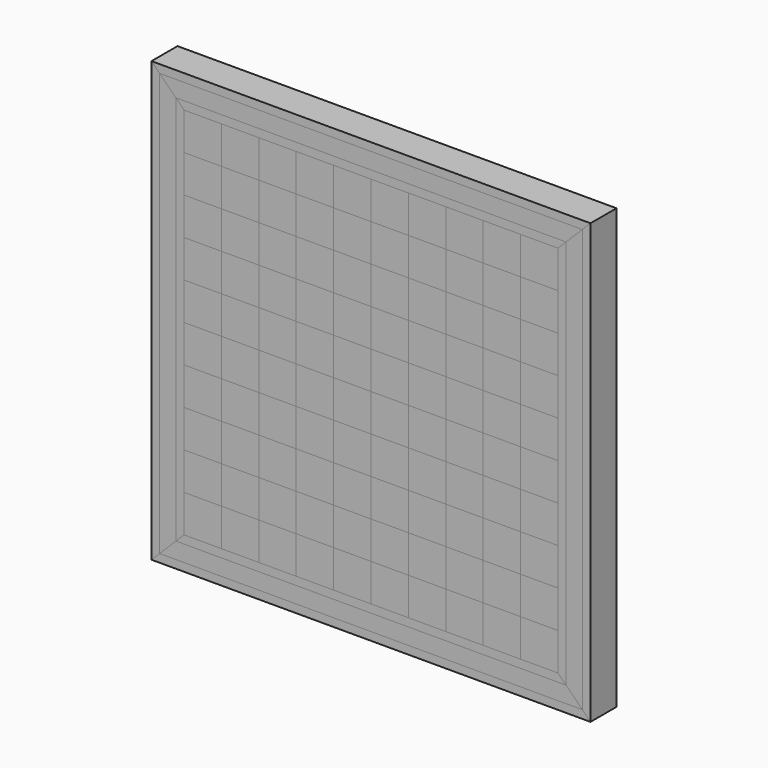
from build123d import *

# Parameters (mm, degrees)
F1_DEPTH = 25.4
F0_W     = 29.21
F0_H     = 29.21
F2_DEPTH = 25.4
F3_DEPTH = 25.4
F4_DEPTH = 25.4


with BuildPart() as f1:
    # F0 (on Front) → F1 (new body)
    with BuildSketch(Plane.XZ):
        Polygon((165.1, 165.1), (171.45, 171.45), (-171.45, 171.45), (-165.1, 165.1), align=None)
    extrude(amount=F1_DEPTH)


with BuildPart() as f1b:
    # F0 (on Front) → F1, piece 2 (new body)
    with BuildSketch(Plane.XZ):
        Polygon((146.05, 146.05), (152.4000018835, 152.4000018835), (116.84, 152.4000018835), (87.63, 152.4000018835), (58.42, 152.4000018835), (29.21, 152.4000018835), (0, 152.4000018835), (-29.21, 152.4000018835), (-58.42, 152.4000018835), (-87.63, 152.4000018835), (-116.84, 152.4000018835), (-152.4000018835, 152.4000018835), (-146.05, 146.05), (-116.84, 146.05), (-87.63, 146.05), (-58.42, 146.05), (-29.21, 146.05), (0, 146.05), (29.21, 146.05), (58.42, 146.05), (87.63, 146.05), (116.84, 146.05), align=None)
    extrude(amount=F1_DEPTH)


with BuildPart() as f1c:
    # F0 (on Front) → F1, piece 3 (new body)
    with BuildSketch(Plane.XZ):
        Polygon((165.1, -165.1), (165.1, 165.1), (152.4000018835, 152.4000018835), (152.4000018835, -152.4000018835), align=None)
    extrude(amount=F1_DEPTH)


with BuildPart() as f1d:
    # F0 (on Front) → F1, piece 4 (new body)
    with BuildSketch(Plane.XZ):
        Polygon((-152.4000018835, 152.4000018835), (-165.1, 165.1), (-165.1, -165.1), (-152.4000018835, -152.4000018835), align=None)
    extrude(amount=F1_DEPTH)


with BuildPart() as f1e:
    # F0 (on Front) → F1, piece 5 (new body)
    with BuildSketch(Plane.XZ):
        Polygon((-152.4000018835, -152.4000018835), (152.4000018835, -152.4000018835), (146.05, -146.05), (116.84, -146.05), (87.63, -146.05), (58.42, -146.05), (29.21, -146.05), (0, -146.05), (-29.21, -146.05), (-58.42, -146.05), (-87.63, -146.05), (-116.84, -146.05), (-146.05, -146.05), align=None)
    extrude(amount=F1_DEPTH)


with BuildPart() as f1f:
    # F0 (on Front) → F1, piece 6 (new body)
    with BuildSketch(Plane.XZ):
        Polygon((-171.45, -171.45), (171.45, -171.45), (165.1, -165.1), (-165.1, -165.1), align=None)
    extrude(amount=F1_DEPTH)


with BuildPart() as f1g:
    # F0 (on Front) → F1, piece 7 (new body)
    with BuildSketch(Plane.XZ):
        with Locations((-131.445, 102.235)):
            Rectangle(F0_W, F0_H)
    extrude(amount=F1_DEPTH)


with BuildPart() as f1h:
    # F0 (on Front) → F1, piece 8 (new body)
    with BuildSketch(Plane.XZ):
        with Locations((-131.445, 43.815)):
            Rectangle(F0_W, F0_H)
    extrude(amount=F1_DEPTH)


with BuildPart() as f1i:
    # F0 (on Front) → F1, piece 9 (new body)
    with BuildSketch(Plane.XZ):
        with Locations((-131.445, -14.605)):
            Rectangle(F0_W, F0_H)
    extrude(amount=F1_DEPTH)


with BuildPart() as f1j:
    # F0 (on Front) → F1, piece 10 (new body)
    with BuildSketch(Plane.XZ):
        with Locations((-131.445, -73.025)):
            Rectangle(F0_W, F0_H)
    extrude(amount=F1_DEPTH)


with BuildPart() as f1k:
    # F0 (on Front) → F1, piece 11 (new body)
    with BuildSketch(Plane.XZ):
        with Locations((-102.235, -102.235)):
            Rectangle(F0_W, F0_H)
    extrude(amount=F1_DEPTH)


with BuildPart() as f1l:
    # F0 (on Front) → F1, piece 12 (new body)
    with BuildSketch(Plane.XZ):
        with Locations((-102.235, -43.815)):
            Rectangle(F0_W, F0_H)
    extrude(amount=F1_DEPTH)


with BuildPart() as f1m:
    # F0 (on Front) → F1, piece 13 (new body)
    with BuildSketch(Plane.XZ):
        with Locations((-102.235, 14.605)):
            Rectangle(F0_W, F0_H)
    extrude(amount=F1_DEPTH)


with BuildPart() as f1n:
    # F0 (on Front) → F1, piece 14 (new body)
    with BuildSketch(Plane.XZ):
        with Locations((-102.235, 73.025)):
            Rectangle(F0_W, F0_H)
    extrude(amount=F1_DEPTH)


with BuildPart() as f1o:
    # F0 (on Front) → F1, piece 15 (new body)
    with BuildSketch(Plane.XZ):
        with Locations((-73.025, 102.235)):
            Rectangle(F0_W, F0_H)
    extrude(amount=F1_DEPTH)


with BuildPart() as f1p:
    # F0 (on Front) → F1, piece 16 (new body)
    with BuildSketch(Plane.XZ):
        with Locations((-73.025, 43.815)):
            Rectangle(F0_W, F0_H)
    extrude(amount=F1_DEPTH)


with BuildPart() as f1q:
    # F0 (on Front) → F1, piece 17 (new body)
    with BuildSketch(Plane.XZ):
        with Locations((-73.025, -14.605)):
            Rectangle(F0_W, F0_H)
    extrude(amount=F1_DEPTH)


with BuildPart() as f1r:
    # F0 (on Front) → F1, piece 18 (new body)
    with BuildSketch(Plane.XZ):
        with Locations((-73.025, -73.025)):
            Rectangle(F0_W, F0_H)
    extrude(amount=F1_DEPTH)


with BuildPart() as f1s:
    # F0 (on Front) → F1, piece 19 (new body)
    with BuildSketch(Plane.XZ):
        with Locations((-43.815, -102.235)):
            Rectangle(F0_W, F0_H)
    extrude(amount=F1_DEPTH)


with BuildPart() as f1t:
    # F0 (on Front) → F1, piece 20 (new body)
    with BuildSketch(Plane.XZ):
        with Locations((-43.815, -43.815)):
            Rectangle(F0_W, F0_H)
    extrude(amount=F1_DEPTH)


with BuildPart() as f1u:
    # F0 (on Front) → F1, piece 21 (new body)
    with BuildSketch(Plane.XZ):
        with Locations((-43.815, 14.605)):
            Rectangle(F0_W, F0_H)
    extrude(amount=F1_DEPTH)


with BuildPart() as f1v:
    # F0 (on Front) → F1, piece 22 (new body)
    with BuildSketch(Plane.XZ):
        with Locations((-43.815, 73.025)):
            Rectangle(F0_W, F0_H)
    extrude(amount=F1_DEPTH)


with BuildPart() as f1w:
    # F0 (on Front) → F1, piece 23 (new body)
    with BuildSketch(Plane.XZ):
        with Locations((-14.605, 102.235)):
            Rectangle(F0_W, F0_H)
    extrude(amount=F1_DEPTH)


with BuildPart() as f1x:
    # F0 (on Front) → F1, piece 24 (new body)
    with BuildSketch(Plane.XZ):
        with Locations((-14.605, 43.815)):
            Rectangle(F0_W, F0_H)
    extrude(amount=F1_DEPTH)


with BuildPart() as f1y:
    # F0 (on Front) → F1, piece 25 (new body)
    with BuildSketch(Plane.XZ):
        with Locations((-14.605, -14.605)):
            Rectangle(F0_W, F0_H)
    extrude(amount=F1_DEPTH)


with BuildPart() as f1z:
    # F0 (on Front) → F1, piece 26 (new body)
    with BuildSketch(Plane.XZ):
        with Locations((-14.605, -73.025)):
            Rectangle(F0_W, F0_H)
    extrude(amount=F1_DEPTH)


with BuildPart() as f1ba:
    # F0 (on Front) → F1, piece 27 (new body)
    with BuildSketch(Plane.XZ):
        with Locations((14.605, -102.235)):
            Rectangle(F0_W, F0_H)
    extrude(amount=F1_DEPTH)


with BuildPart() as f1bb:
    # F0 (on Front) → F1, piece 28 (new body)
    with BuildSketch(Plane.XZ):
        with Locations((14.605, -43.815)):
            Rectangle(F0_W, F0_H)
    extrude(amount=F1_DEPTH)


with BuildPart() as f1bc:
    # F0 (on Front) → F1, piece 29 (new body)
    with BuildSketch(Plane.XZ):
        with Locations((14.605, 14.605)):
            Rectangle(F0_W, F0_H)
    extrude(amount=F1_DEPTH)


with BuildPart() as f1bd:
    # F0 (on Front) → F1, piece 30 (new body)
    with BuildSketch(Plane.XZ):
        with Locations((43.815, 102.235)):
            Rectangle(F0_W, F0_H)
    extrude(amount=F1_DEPTH)


with BuildPart() as f1be:
    # F0 (on Front) → F1, piece 31 (new body)
    with BuildSketch(Plane.XZ):
        with Locations((43.815, 43.815)):
            Rectangle(F0_W, F0_H)
    extrude(amount=F1_DEPTH)


with BuildPart() as f1bf:
    # F0 (on Front) → F1, piece 32 (new body)
    with BuildSketch(Plane.XZ):
        with Locations((43.815, -14.605)):
            Rectangle(F0_W, F0_H)
    extrude(amount=F1_DEPTH)


with BuildPart() as f1bg:
    # F0 (on Front) → F1, piece 33 (new body)
    with BuildSketch(Plane.XZ):
        with Locations((43.815, -73.025)):
            Rectangle(F0_W, F0_H)
    extrude(amount=F1_DEPTH)


with BuildPart() as f1bh:
    # F0 (on Front) → F1, piece 34 (new body)
    with BuildSketch(Plane.XZ):
        with Locations((73.025, -102.235)):
            Rectangle(F0_W, F0_H)
    extrude(amount=F1_DEPTH)


with BuildPart() as f1bi:
    # F0 (on Front) → F1, piece 35 (new body)
    with BuildSketch(Plane.XZ):
        with Locations((73.025, 14.605)):
            Rectangle(F0_W, F0_H)
    extrude(amount=F1_DEPTH)


with BuildPart() as f1bj:
    # F0 (on Front) → F1, piece 36 (new body)
    with BuildSketch(Plane.XZ):
        with Locations((73.025, 73.025)):
            Rectangle(F0_W, F0_H)
    extrude(amount=F1_DEPTH)


with BuildPart() as f1bk:
    # F0 (on Front) → F1, piece 37 (new body)
    with BuildSketch(Plane.XZ):
        with Locations((102.235, 102.235)):
            Rectangle(F0_W, F0_H)
    extrude(amount=F1_DEPTH)


with BuildPart() as f1bl:
    # F0 (on Front) → F1, piece 38 (new body)
    with BuildSketch(Plane.XZ):
        with Locations((102.235, 43.815)):
            Rectangle(F0_W, F0_H)
    extrude(amount=F1_DEPTH)


with BuildPart() as f1bm:
    # F0 (on Front) → F1, piece 39 (new body)
    with BuildSketch(Plane.XZ):
        with Locations((102.235, -14.605)):
            Rectangle(F0_W, F0_H)
    extrude(amount=F1_DEPTH)


with BuildPart() as f1bn:
    # F0 (on Front) → F1, piece 40 (new body)
    with BuildSketch(Plane.XZ):
        with Locations((102.235, -73.025)):
            Rectangle(F0_W, F0_H)
    extrude(amount=F1_DEPTH)


with BuildPart() as f1bo:
    # F0 (on Front) → F1, piece 41 (new body)
    with BuildSketch(Plane.XZ):
        with Locations((131.445, -102.235)):
            Rectangle(F0_W, F0_H)
    extrude(amount=F1_DEPTH)


with BuildPart() as f1bp:
    # F0 (on Front) → F1, piece 42 (new body)
    with BuildSketch(Plane.XZ):
        with Locations((131.445, -43.815)):
            Rectangle(F0_W, F0_H)
    extrude(amount=F1_DEPTH)


with BuildPart() as f1bq:
    # F0 (on Front) → F1, piece 43 (new body)
    with BuildSketch(Plane.XZ):
        with Locations((131.445, 14.605)):
            Rectangle(F0_W, F0_H)
    extrude(amount=F1_DEPTH)


with BuildPart() as f1br:
    # F0 (on Front) → F1, piece 44 (new body)
    with BuildSketch(Plane.XZ):
        with Locations((131.445, 73.025)):
            Rectangle(F0_W, F0_H)
    extrude(amount=F1_DEPTH)


with BuildPart() as f1bs:
    # F0 (on Front) → F1, piece 45 (new body)
    with BuildSketch(Plane.XZ):
        with Locations((14.605, 73.025)):
            Rectangle(F0_W, F0_H)
    extrude(amount=F1_DEPTH)


with BuildPart() as f1bt:
    # F0 (on Front) → F1, piece 46 (new body)
    with BuildSketch(Plane.XZ):
        with Locations((73.025, -43.815)):
            Rectangle(F0_W, F0_H)
    extrude(amount=F1_DEPTH)


with BuildPart() as f2:
    # F0 (on Front) → F2 (new body)
    with BuildSketch(Plane.XZ):
        with Locations((-131.445, 131.445)):
            Rectangle(F0_W, F0_H)
    extrude(amount=F2_DEPTH)


with BuildPart() as f2b:
    # F0 (on Front) → F2, piece 2 (new body)
    with BuildSketch(Plane.XZ):
        with Locations((-73.025, 131.445)):
            Rectangle(F0_W, F0_H)
    extrude(amount=F2_DEPTH)


with BuildPart() as f2c:
    # F0 (on Front) → F2, piece 3 (new body)
    with BuildSketch(Plane.XZ):
        with Locations((-43.815, 102.235)):
            Rectangle(F0_W, F0_H)
    extrude(amount=F2_DEPTH)


with BuildPart() as f2d:
    # F0 (on Front) → F2, piece 4 (new body)
    with BuildSketch(Plane.XZ):
        with Locations((-14.605, 131.445)):
            Rectangle(F0_W, F0_H)
    extrude(amount=F2_DEPTH)


with BuildPart() as f2e:
    # F0 (on Front) → F2, piece 5 (new body)
    with BuildSketch(Plane.XZ):
        with Locations((14.605, 102.235)):
            Rectangle(F0_W, F0_H)
    extrude(amount=F2_DEPTH)


with BuildPart() as f2f:
    # F0 (on Front) → F2, piece 6 (new body)
    with BuildSketch(Plane.XZ):
        with Locations((43.815, 131.445)):
            Rectangle(F0_W, F0_H)
    extrude(amount=F2_DEPTH)


with BuildPart() as f2g:
    # F0 (on Front) → F2, piece 7 (new body)
    with BuildSketch(Plane.XZ):
        with Locations((73.025, 102.235)):
            Rectangle(F0_W, F0_H)
    extrude(amount=F2_DEPTH)


with BuildPart() as f2h:
    # F0 (on Front) → F2, piece 8 (new body)
    with BuildSketch(Plane.XZ):
        with Locations((102.235, 131.445)):
            Rectangle(F0_W, F0_H)
    extrude(amount=F2_DEPTH)


with BuildPart() as f2i:
    # F0 (on Front) → F2, piece 9 (new body)
    with BuildSketch(Plane.XZ):
        with Locations((131.445, 102.235)):
            Rectangle(F0_W, F0_H)
    extrude(amount=F2_DEPTH)


with BuildPart() as f2j:
    # F0 (on Front) → F2, piece 10 (new body)
    with BuildSketch(Plane.XZ):
        with Locations((131.445, 43.815)):
            Rectangle(F0_W, F0_H)
    extrude(amount=F2_DEPTH)


with BuildPart() as f2k:
    # F0 (on Front) → F2, piece 11 (new body)
    with BuildSketch(Plane.XZ):
        with Locations((102.235, 73.025)):
            Rectangle(F0_W, F0_H)
    extrude(amount=F2_DEPTH)


with BuildPart() as f2l:
    # F0 (on Front) → F2, piece 12 (new body)
    with BuildSketch(Plane.XZ):
        with Locations((73.025, 43.815)):
            Rectangle(F0_W, F0_H)
    extrude(amount=F2_DEPTH)


with BuildPart() as f2m:
    # F0 (on Front) → F2, piece 13 (new body)
    with BuildSketch(Plane.XZ):
        with Locations((43.815, 73.025)):
            Rectangle(F0_W, F0_H)
    extrude(amount=F2_DEPTH)


with BuildPart() as f2n:
    # F0 (on Front) → F2, piece 14 (new body)
    with BuildSketch(Plane.XZ):
        with Locations((14.605, 43.815)):
            Rectangle(F0_W, F0_H)
    extrude(amount=F2_DEPTH)


with BuildPart() as f2o:
    # F0 (on Front) → F2, piece 15 (new body)
    with BuildSketch(Plane.XZ):
        with Locations((-14.605, 73.025)):
            Rectangle(F0_W, F0_H)
    extrude(amount=F2_DEPTH)


with BuildPart() as f2p:
    # F0 (on Front) → F2, piece 16 (new body)
    with BuildSketch(Plane.XZ):
        with Locations((-43.815, 43.815)):
            Rectangle(F0_W, F0_H)
    extrude(amount=F2_DEPTH)


with BuildPart() as f2q:
    # F0 (on Front) → F2, piece 17 (new body)
    with BuildSketch(Plane.XZ):
        with Locations((-73.025, 73.025)):
            Rectangle(F0_W, F0_H)
    extrude(amount=F2_DEPTH)


with BuildPart() as f2r:
    # F0 (on Front) → F2, piece 18 (new body)
    with BuildSketch(Plane.XZ):
        with Locations((-102.235, 43.815)):
            Rectangle(F0_W, F0_H)
    extrude(amount=F2_DEPTH)


with BuildPart() as f2s:
    # F0 (on Front) → F2, piece 19 (new body)
    with BuildSketch(Plane.XZ):
        with Locations((-131.445, 73.025)):
            Rectangle(F0_W, F0_H)
    extrude(amount=F2_DEPTH)


with BuildPart() as f2t:
    # F0 (on Front) → F2, piece 20 (new body)
    with BuildSketch(Plane.XZ):
        with Locations((-102.235, 102.235)):
            Rectangle(F0_W, F0_H)
    extrude(amount=F2_DEPTH)


with BuildPart() as f2u:
    # F0 (on Front) → F2, piece 21 (new body)
    with BuildSketch(Plane.XZ):
        with Locations((-131.445, 14.605)):
            Rectangle(F0_W, F0_H)
    extrude(amount=F2_DEPTH)


with BuildPart() as f2v:
    # F0 (on Front) → F2, piece 22 (new body)
    with BuildSketch(Plane.XZ):
        with Locations((-73.025, 14.605)):
            Rectangle(F0_W, F0_H)
        with Locations((-73.025, 14.605)):
            Rectangle(F0_W, F0_H)
    extrude(amount=F2_DEPTH)


with BuildPart() as f2w:
    # F0 (on Front) → F2, piece 23 (new body)
    with BuildSketch(Plane.XZ):
        with Locations((-14.605, 14.605)):
            Rectangle(F0_W, F0_H)
    extrude(amount=F2_DEPTH)


with BuildPart() as f2x:
    # F0 (on Front) → F2, piece 24 (new body)
    with BuildSketch(Plane.XZ):
        with Locations((43.815, 14.605)):
            Rectangle(F0_W, F0_H)
    extrude(amount=F2_DEPTH)


with BuildPart() as f2y:
    # F0 (on Front) → F2, piece 25 (new body)
    with BuildSketch(Plane.XZ):
        with Locations((102.235, 14.605)):
            Rectangle(F0_W, F0_H)
    extrude(amount=F2_DEPTH)


with BuildPart() as f2z:
    # F0 (on Front) → F2, piece 26 (new body)
    with BuildSketch(Plane.XZ):
        with Locations((131.445, -14.605)):
            Rectangle(F0_W, F0_H)
    extrude(amount=F2_DEPTH)


with BuildPart() as f2ba:
    # F0 (on Front) → F2, piece 27 (new body)
    with BuildSketch(Plane.XZ):
        with Locations((73.025, -14.605)):
            Rectangle(F0_W, F0_H)
    extrude(amount=F2_DEPTH)


with BuildPart() as f2bb:
    # F0 (on Front) → F2, piece 28 (new body)
    with BuildSketch(Plane.XZ):
        with Locations((14.605, -14.605)):
            Rectangle(F0_W, F0_H)
    extrude(amount=F2_DEPTH)


with BuildPart() as f2bc:
    # F0 (on Front) → F2, piece 29 (new body)
    with BuildSketch(Plane.XZ):
        with Locations((-43.815, -14.605)):
            Rectangle(F0_W, F0_H)
    extrude(amount=F2_DEPTH)


with BuildPart() as f2bd:
    # F0 (on Front) → F2, piece 30 (new body)
    with BuildSketch(Plane.XZ):
        with Locations((-102.235, -14.605)):
            Rectangle(F0_W, F0_H)
    extrude(amount=F2_DEPTH)


with BuildPart() as f2be:
    # F0 (on Front) → F2, piece 31 (new body)
    with BuildSketch(Plane.XZ):
        with Locations((-131.445, -43.815)):
            Rectangle(F0_W, F0_H)
    extrude(amount=F2_DEPTH)


with BuildPart() as f2bf:
    # F0 (on Front) → F2, piece 32 (new body)
    with BuildSketch(Plane.XZ):
        with Locations((-73.025, -43.815)):
            Rectangle(F0_W, F0_H)
    extrude(amount=F2_DEPTH)


with BuildPart() as f2bg:
    # F0 (on Front) → F2, piece 33 (new body)
    with BuildSketch(Plane.XZ):
        with Locations((-14.605, -43.815)):
            Rectangle(F0_W, F0_H)
    extrude(amount=F2_DEPTH)


with BuildPart() as f2bh:
    # F0 (on Front) → F2, piece 34 (new body)
    with BuildSketch(Plane.XZ):
        with Locations((43.815, -43.815)):
            Rectangle(F0_W, F0_H)
    extrude(amount=F2_DEPTH)


with BuildPart() as f2bi:
    # F0 (on Front) → F2, piece 35 (new body)
    with BuildSketch(Plane.XZ):
        with Locations((102.235, -43.815)):
            Rectangle(F0_W, F0_H)
    extrude(amount=F2_DEPTH)


with BuildPart() as f2bj:
    # F0 (on Front) → F2, piece 36 (new body)
    with BuildSketch(Plane.XZ):
        with Locations((131.445, -73.025)):
            Rectangle(F0_W, F0_H)
    extrude(amount=F2_DEPTH)


with BuildPart() as f2bk:
    # F0 (on Front) → F2, piece 37 (new body)
    with BuildSketch(Plane.XZ):
        with Locations((73.025, -73.025)):
            Rectangle(F0_W, F0_H)
    extrude(amount=F2_DEPTH)


with BuildPart() as f2bl:
    # F0 (on Front) → F2, piece 38 (new body)
    with BuildSketch(Plane.XZ):
        with Locations((14.605, -73.025)):
            Rectangle(F0_W, F0_H)
    extrude(amount=F2_DEPTH)


with BuildPart() as f2bm:
    # F0 (on Front) → F2, piece 39 (new body)
    with BuildSketch(Plane.XZ):
        with Locations((-43.815, -73.025)):
            Rectangle(F0_W, F0_H)
    extrude(amount=F2_DEPTH)


with BuildPart() as f2bn:
    # F0 (on Front) → F2, piece 40 (new body)
    with BuildSketch(Plane.XZ):
        with Locations((-102.235, -73.025)):
            Rectangle(F0_W, F0_H)
    extrude(amount=F2_DEPTH)


with BuildPart() as f2bo:
    # F0 (on Front) → F2, piece 41 (new body)
    with BuildSketch(Plane.XZ):
        with Locations((-131.445, -102.235)):
            Rectangle(F0_W, F0_H)
    extrude(amount=F2_DEPTH)


with BuildPart() as f2bp:
    # F0 (on Front) → F2, piece 42 (new body)
    with BuildSketch(Plane.XZ):
        with Locations((-73.025, -102.235)):
            Rectangle(F0_W, F0_H)
    extrude(amount=F2_DEPTH)


with BuildPart() as f2bq:
    # F0 (on Front) → F2, piece 43 (new body)
    with BuildSketch(Plane.XZ):
        with Locations((-14.605, -102.235)):
            Rectangle(F0_W, F0_H)
    extrude(amount=F2_DEPTH)


with BuildPart() as f2br:
    # F0 (on Front) → F2, piece 44 (new body)
    with BuildSketch(Plane.XZ):
        with Locations((43.815, -102.235)):
            Rectangle(F0_W, F0_H)
    extrude(amount=F2_DEPTH)


with BuildPart() as f2bs:
    # F0 (on Front) → F2, piece 45 (new body)
    with BuildSketch(Plane.XZ):
        with Locations((102.235, -102.235)):
            Rectangle(F0_W, F0_H)
    extrude(amount=F2_DEPTH)


with BuildPart() as f2bt:
    # F0 (on Front) → F2, piece 46 (new body)
    with BuildSketch(Plane.XZ):
        with Locations((131.445, -131.445)):
            Rectangle(F0_W, F0_H)
    extrude(amount=F2_DEPTH)


with BuildPart() as f2bu:
    # F0 (on Front) → F2, piece 47 (new body)
    with BuildSketch(Plane.XZ):
        with Locations((73.025, -131.445)):
            Rectangle(F0_W, F0_H)
    extrude(amount=F2_DEPTH)


with BuildPart() as f2bv:
    # F0 (on Front) → F2, piece 48 (new body)
    with BuildSketch(Plane.XZ):
        with Locations((14.605, -131.445)):
            Rectangle(F0_W, F0_H)
    extrude(amount=F2_DEPTH)


with BuildPart() as f2bw:
    # F0 (on Front) → F2, piece 49 (new body)
    with BuildSketch(Plane.XZ):
        with Locations((-43.815, -131.445)):
            Rectangle(F0_W, F0_H)
    extrude(amount=F2_DEPTH)


with BuildPart() as f2bx:
    # F0 (on Front) → F2, piece 50 (new body)
    with BuildSketch(Plane.XZ):
        with Locations((-102.235, -131.445)):
            Rectangle(F0_W, F0_H)
    extrude(amount=F2_DEPTH)


with BuildPart() as f2by:
    # F0 (on Front) → F2, piece 51 (new body)
    with BuildSketch(Plane.XZ):
        Polygon((-165.1, -165.1), (165.1, -165.1), (152.4000018835, -152.4000018835), (-152.4000018835, -152.4000018835), align=None)
    extrude(amount=F2_DEPTH)


with BuildPart() as f2bz:
    # F0 (on Front) → F2, piece 52 (new body)
    with BuildSketch(Plane.XZ):
        Polygon((152.4000018835, 152.4000018835), (165.1, 165.1), (-165.1, 165.1), (-152.4000018835, 152.4000018835), (-116.84, 152.4000018835), (-87.63, 152.4000018835), (-58.42, 152.4000018835), (-29.21, 152.4000018835), (0, 152.4000018835), (29.21, 152.4000018835), (58.42, 152.4000018835), (87.63, 152.4000018835), (116.84, 152.4000018835), align=None)
    extrude(amount=F2_DEPTH)


with BuildPart() as f2ca:
    # F0 (on Front) → F2, piece 53 (new body)
    with BuildSketch(Plane.XZ):
        Polygon((-165.1, 165.1), (-171.45, 171.45), (-171.45, -171.45), (-165.1, -165.1), align=None)
    extrude(amount=F2_DEPTH)


with BuildPart() as f2cb:
    # F0 (on Front) → F2, piece 54 (new body)
    with BuildSketch(Plane.XZ):
        Polygon((171.45, -171.45), (171.45, 171.45), (165.1, 165.1), (165.1, -165.1), align=None)
    extrude(amount=F2_DEPTH)


with BuildPart() as f3:
    # F0 (on Front) → F3 (new body)
    with BuildSketch(Plane.XZ):
        with Locations((-102.235, 131.445)):
            Rectangle(F0_W, F0_H)
    extrude(amount=F3_DEPTH)


with BuildPart() as f3b:
    # F0 (on Front) → F3, piece 2 (new body)
    with BuildSketch(Plane.XZ):
        with Locations((-43.815, 131.445)):
            Rectangle(F0_W, F0_H)
    extrude(amount=F3_DEPTH)


with BuildPart() as f3c:
    # F0 (on Front) → F3, piece 3 (new body)
    with BuildSketch(Plane.XZ):
        with Locations((14.605, 131.445)):
            Rectangle(F0_W, F0_H)
    extrude(amount=F3_DEPTH)


with BuildPart() as f3d:
    # F0 (on Front) → F3, piece 4 (new body)
    with BuildSketch(Plane.XZ):
        with Locations((73.025, 131.445)):
            Rectangle(F0_W, F0_H)
    extrude(amount=F3_DEPTH)


with BuildPart() as f3e:
    # F0 (on Front) → F3, piece 5 (new body)
    with BuildSketch(Plane.XZ):
        with Locations((131.445, 131.445)):
            Rectangle(F0_W, F0_H)
    extrude(amount=F3_DEPTH)


with BuildPart() as f3f:
    # F0 (on Front) → F3, piece 6 (new body)
    with BuildSketch(Plane.XZ):
        with Locations((102.235, -131.445)):
            Rectangle(F0_W, F0_H)
    extrude(amount=F3_DEPTH)


with BuildPart() as f3g:
    # F0 (on Front) → F3, piece 7 (new body)
    with BuildSketch(Plane.XZ):
        with Locations((43.815, -131.445)):
            Rectangle(F0_W, F0_H)
    extrude(amount=F3_DEPTH)


with BuildPart() as f3h:
    # F0 (on Front) → F3, piece 8 (new body)
    with BuildSketch(Plane.XZ):
        with Locations((-14.605, -131.445)):
            Rectangle(F0_W, F0_H)
    extrude(amount=F3_DEPTH)


with BuildPart() as f3i:
    # F0 (on Front) → F3, piece 9 (new body)
    with BuildSketch(Plane.XZ):
        with Locations((-73.025, -131.445)):
            Rectangle(F0_W, F0_H)
    extrude(amount=F3_DEPTH)


with BuildPart() as f3j:
    # F0 (on Front) → F3, piece 10 (new body)
    with BuildSketch(Plane.XZ):
        with Locations((-131.445, -131.445)):
            Rectangle(F0_W, F0_H)
    extrude(amount=F3_DEPTH)


with BuildPart() as f4:
    # F0 (on Front) → F4 (new body)
    with BuildSketch(Plane.XZ):
        Polygon((-146.05, 146.05), (-152.4000018835, 152.4000018835), (-152.4000018835, -152.4000018835), (-146.05, -146.05), (-146.05, -116.84), (-146.05, -87.63), (-146.05, -58.42), (-146.05, -29.21), (-146.05, 0), (-146.05, 29.21), (-146.05, 58.42), (-146.05, 87.63), (-146.05, 116.84), align=None)
    extrude(amount=F4_DEPTH)


with BuildPart() as f4b:
    # F0 (on Front) → F4, piece 2 (new body)
    with BuildSketch(Plane.XZ):
        Polygon((152.4000018835, -152.4000018835), (152.4000018835, 152.4000018835), (146.05, 146.05), (146.05, 116.84), (146.05, 87.63), (146.05, 58.42), (146.05, 29.21), (146.05, 0), (146.05, -29.21), (146.05, -58.42), (146.05, -87.63), (146.05, -116.84), (146.05, -146.05), align=None)
    extrude(amount=F4_DEPTH)


solid = Compound([f1.part, f1b.part, f1c.part, f1d.part, f1e.part, f1f.part, f1g.part, f1h.part, f1i.part, f1j.part, f1k.part, f1l.part, f1m.part, f1n.part, f1o.part, f1p.part, f1q.part, f1r.part, f1s.part, f1t.part, f1u.part, f1v.part, f1w.part, f1x.part, f1y.part, f1z.part, f1ba.part, f1bb.part, f1bc.part, f1bd.part, f1be.part, f1bf.part, f1bg.part, f1bh.part, f1bi.part, f1bj.part, f1bk.part, f1bl.part, f1bm.part, f1bn.part, f1bo.part, f1bp.part, f1bq.part, f1br.part, f1bs.part, f1bt.part, f2.part, f2b.part, f2c.part, f2d.part, f2e.part, f2f.part, f2g.part, f2h.part, f2i.part, f2j.part, f2k.part, f2l.part, f2m.part, f2n.part, f2o.part, f2p.part, f2q.part, f2r.part, f2s.part, f2t.part, f2u.part, f2v.part, f2w.part, f2x.part, f2y.part, f2z.part, f2ba.part, f2bb.part, f2bc.part, f2bd.part, f2be.part, f2bf.part, f2bg.part, f2bh.part, f2bi.part, f2bj.part, f2bk.part, f2bl.part, f2bm.part, f2bn.part, f2bo.part, f2bp.part, f2bq.part, f2br.part, f2bs.part, f2bt.part, f2bu.part, f2bv.part, f2bw.part, f2bx.part, f2by.part, f2bz.part, f2ca.part, f2cb.part, f3.part, f3b.part, f3c.part, f3d.part, f3e.part, f3f.part, f3g.part, f3h.part, f3i.part, f3j.part, f4.part, f4b.part])
